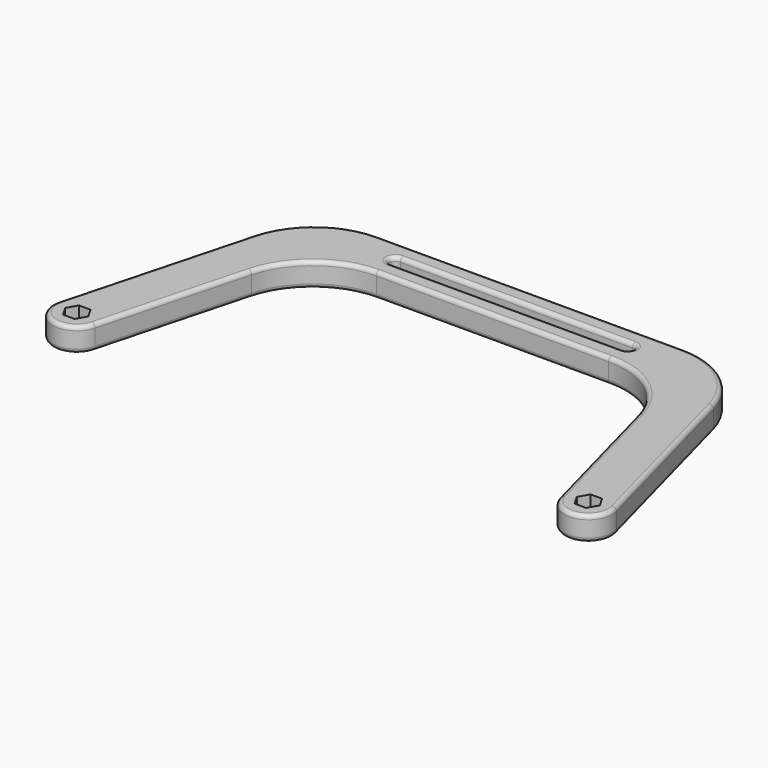
from build123d import *

# Parameters (mm, degrees)
PAD_DEPTH    = 6
FILLET_R     = 20
POCKET_DEPTH = 6
FILLET001_R  = 1
FILLET002_R  = 1


with BuildPart() as part:
    # Sketch → Pad (new body)
    with BuildSketch(Plane.XY):
        with BuildLine():
            ThreePointArc((-69.795555, 1.552914), (-65.552914, -5.795555), (-58.204445, -1.552914))
            Line((-58.204445, -1.552914), (-44.390883, 50))
            Line((-44.390883, 50), (44.390883, 50))
            Line((44.390883, 50), (58.204445, -1.552914))
            ThreePointArc((58.204445, -1.552914), (65.552914, -5.795555), (69.795555, 1.552914))
            Line((69.795555, 1.552914), (53.598807, 62))
            Line((53.598807, 62), (-53.598807, 62))
            Line((-53.598807, 62), (-69.795555, 1.552914))
        make_face()
        Polygon((-62.556624, 2.5), (-65.443376, 2.5), (-66.886751, 0), (-65.443376, -2.5), (-62.556624, -2.5), (-61.113249, 0), align=None, mode=Mode.SUBTRACT)
        Polygon((65.443376, 2.5), (62.556624, 2.5), (61.113249, 0), (62.556624, -2.5), (65.443376, -2.5), (66.886751, 0), align=None, mode=Mode.SUBTRACT)
    extrude(amount=PAD_DEPTH)

    # Fillet
    fillet_edges = [part.edges().sort_by_distance(p)[0] for p in [
        (-53.598807, 62, 3),
        (53.598807, 62, 3),
        (-44.390883, 50, 3),
        (44.390883, 50, 3),
    ]]
    fillet(fillet_edges, radius=FILLET_R)

    # Sketch001 (on Face5 of Fillet) → Pocket (cut)
    with BuildSketch(Plane.XY.offset(6)):
        with BuildLine():
            ThreePointArc((-29.044344, 57.5), (-30.544344, 56), (-29.044344, 54.5))
            Line((-29.044344, 54.5), (29.044344, 54.5))
            ThreePointArc((29.044344, 54.5), (30.544344, 56), (29.044344, 57.5))
            Line((29.044344, 57.5), (-29.044344, 57.5))
        make_face()
    extrude(amount=-POCKET_DEPTH, mode=Mode.SUBTRACT)

    # Fillet001
    fillet001_edges = [part.edges().sort_by_distance(p)[0] for p in [
        (0, 57.5, 6),
        (0, 57.5, 0),
    ]]
    fillet(fillet001_edges, radius=FILLET001_R)

    # Fillet002
    fillet002_edges = [part.edges().sort_by_distance(p)[0] for p in [
        (-41.219572, 45.867067, 6),
        (41.219572, 45.867067, 0),
    ]]
    fillet(fillet002_edges, radius=FILLET002_R)


solid = part.part
